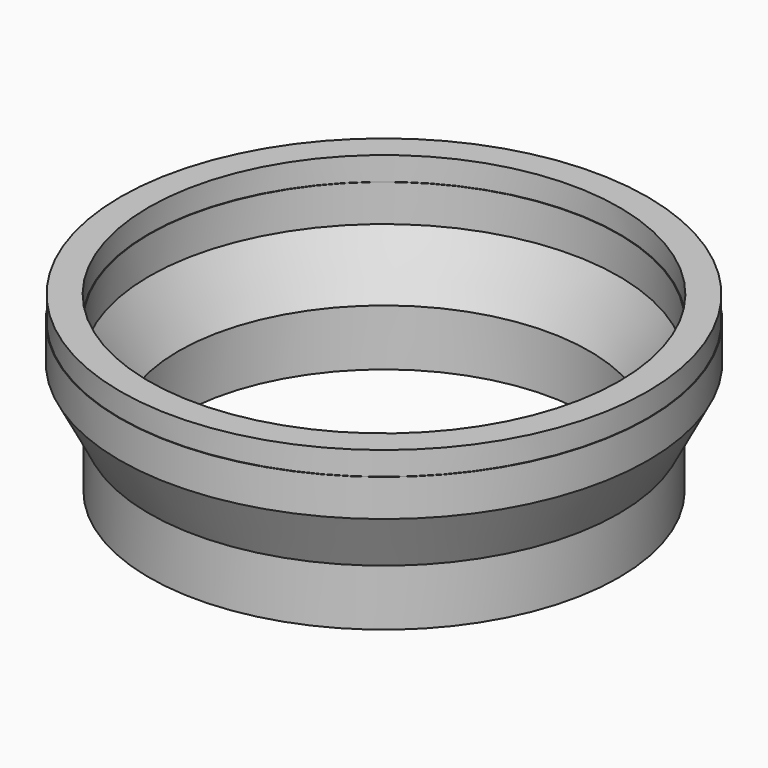
from build123d import *


with BuildPart() as f1:
    # F0 (on Front) → F1 (revolve)
    with BuildSketch(Plane.XZ):
        Polygon((-351, -254.865593), (-350, -254.865593), (-350, -158.865593), (-400, -62.865593), (-400, 0.134407), (-401, 0.134407), (-401, 40.134407), (-449, 40.134407), (-449, 0.134407), (-450, 0.134407), (-450, -62.865593), (-400, -158.865593), (-400, -254.865593), (-399, -254.865593), (-399, -214.865593), (-351, -214.865593), align=None)
    revolve(axis=Axis((0, 0, -0.829662), (0, 0, -1)))


solid = f1.part
